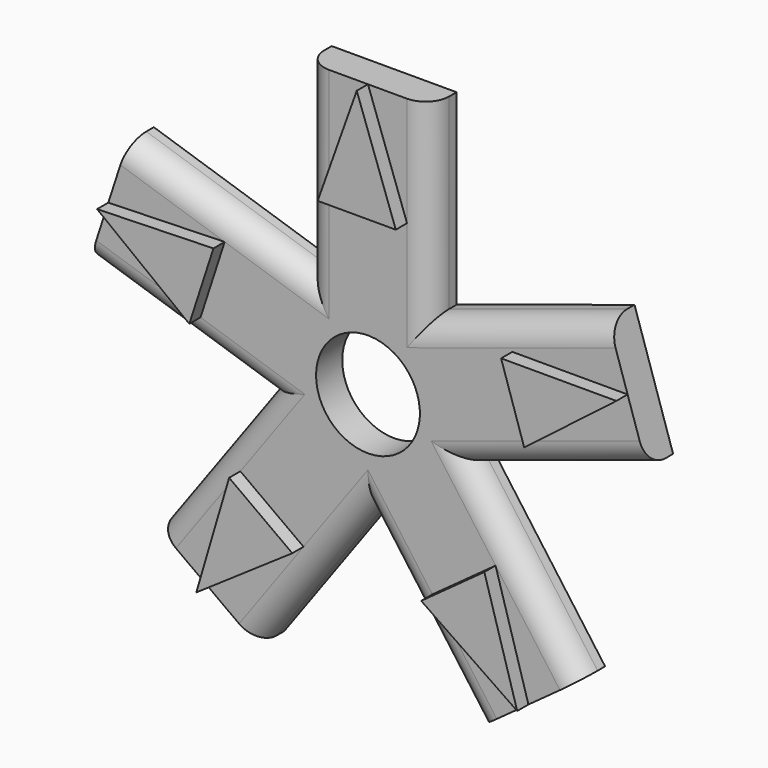
from build123d import *

# Parameters (mm, degrees)
F0_W     = 26.6942243119
F0_H     = 40
F1_DEPTH = 7
F2_R     = 5
F4_DEPTH = 3
F6_D     = 22.2
F6_DEPTH = 20
F6_TIP   = 6.6695528712


with BuildPart() as f1:
    # F0 (on Front) → F1 (new body)
    with BuildSketch(Plane.XZ):
        Polygon((-23.5114100917, -55.0681432643), (0, -22.7074634893), (-21.59608112, -7.0169921173), (-45.1074912117, -39.3776718923), align=None)
        Polygon((-21.59608112, -7.0169921173), (0, -22.7074634893), (21.59608112, -7.0169921173), (13.347112156, 18.370723862), (-13.347112156, 18.370723862), align=None)
        Polygon((21.59608112, -7.0169921173), (0, -22.7074634893), (23.5114100917, -55.0681432643), (45.1074912117, -39.3776718923), align=None)
        Polygon((-59.6383417718, 5.3436876577), (-21.59608112, -7.0169921173), (-13.347112156, 18.370723862), (-51.3893728078, 30.731403637), align=None)
        Polygon((13.347112156, 18.370723862), (21.59608112, -7.0169921173), (59.6383417718, 5.3436876577), (51.3893728078, 30.731403637), align=None)
        with Locations((0, 38.370723862)):
            Rectangle(F0_W, F0_H)
    extrude(amount=F1_DEPTH)

    # F2
    f2_edges = [f1.edges().sort_by_distance(p)[0] for p in [
        (-40.617211, -7, -0.836652),
        (-32.368242, -7, 24.551064),
        (-11.755705, -7, -38.887803),
        (40.617211, -7, -0.836652),
        (-33.351786, -7, -23.197332),
        (33.351786, -7, -23.197332),
        (11.755705, -7, -38.887803),
        (32.368242, -7, 24.551064),
        (13.347112, -7, 38.370724),
        (-13.347112, -7, 38.370724),
    ]]
    fillet(f2_edges, radius=F2_R)

    # F3 (on face) → F4 (join)
    with BuildSketch(Plane.XZ.offset(7)):
        Polygon((-55.5138572898, 18.0375456473), (-35.7995839881, 2.8553168412), (-30.6407849678, 18.7324676575), align=None)
        Polygon((0, 58.370723862), (-8.347112156, 34.9297690608), (8.347112156, 34.9297690608), align=None)
        Polygon((55.5138572898, 18.0375456473), (30.8665788163, 18.0375456473), (35.7995839881, 2.8553168412), align=None)
        Polygon((27.284158708, -23.3524673553), (13.7782475318, -33.1650862043), (34.3094506517, -47.2229075783), align=None)
        Polygon((-13.7782475318, -33.1650862043), (-27.284158708, -23.3524673553), (-34.3094506517, -47.2229075783), align=None)
    extrude(amount=F4_DEPTH)

    # F6
    with Locations(Plane(origin=(0, 0, 0), x_dir=(1, 0, 0), z_dir=(0, 1, 0))):
        with Locations((0, 0)):
            Hole(F6_D / 2, depth=F6_DEPTH)
            with Locations((0, 0, -(F6_DEPTH + F6_TIP / 2))):  # 118° drill point
                Cone(0, F6_D / 2, F6_TIP, mode=Mode.SUBTRACT)


solid = f1.part
